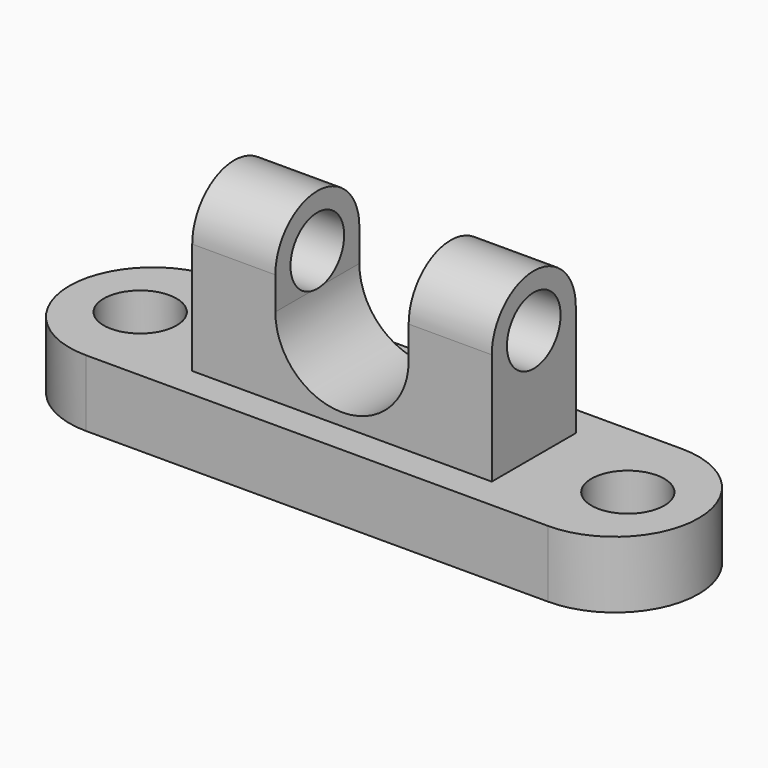
from build123d import *

# Parameters (mm, degrees)
F1_DEPTH  = 20.32
F2_R      = 11.1083186408
F3_DEPTH  = 25.4
F4_W      = 91.2809744477
F4_H      = 32.0040024817
F5_DEPTH  = 34.036
F6_R      = 16.0020012408
F7_DEPTH  = 91.2809744477
F9_DEPTH  = 33.528
F10_R     = 10.2254227484
F11_DEPTH = 105.41


with BuildPart() as f1:
    # F0 (on Top) → F1 (new body)
    with BuildSketch(Plane.XY):
        with BuildLine():
            ThreePointArc((70.4088062048, -25.4640523344), (95.8728585392, 0), (70.4088062048, 25.4640523344))
            Line((70.4088062048, 25.4640523344), (-70.4088062048, 25.4640523344))
            ThreePointArc((-70.4088062048, 25.4640523344), (-95.8728585392, 0), (-70.4088062048, -25.4640523344))
            Line((-70.4088062048, -25.4640523344), (70.4088062048, -25.4640523344))
        make_face()
    extrude(amount=F1_DEPTH)

    # F2 (on face) → F3 (cut)
    with BuildSketch(Plane.XY.offset(20.32)):
        with Locations((74.3049383163, 0)):
            Circle(F2_R)
        with Locations((-74.3049383163, 0)):
            Circle(F2_R)
    extrude(amount=-F3_DEPTH, mode=Mode.SUBTRACT)

    # F4 (on face) → F5 (join)
    with BuildSketch(Plane.XY.offset(20.32)):
        Rectangle(F4_W, F4_H)
    extrude(amount=F5_DEPTH)

    # F6 (on face) → F7 (join, through all)
    with BuildSketch(Plane.YZ.offset(45.6404872239)):
        with Locations((0, 54.356)):
            Circle(F6_R)
    extrude(amount=-F7_DEPTH)

    # F8 (on Front) → F9 (cut, symmetric)
    with BuildSketch(Plane.XZ):
        with BuildLine():
            Line((20.3155819327, 44.3881601095), (20.3155819327, 96.7077314854))
            Line((20.3155819327, 96.7077314854), (-20.3155819327, 96.7077314854))
            Line((-20.3155819327, 96.7077314854), (-20.3155819327, 44.3881601095))
            ThreePointArc((-20.3155819327, 44.3881601095), (0, 24.0725781769), (20.3155819327, 44.3881601095))
        make_face()
    extrude(amount=F9_DEPTH, both=True, mode=Mode.SUBTRACT)

    # F10 (on face) → F11 (cut)
    with BuildSketch(Plane.YZ.offset(45.6404872239)):
        with Locations((0, 54.356)):
            Circle(F10_R)
    extrude(amount=-F11_DEPTH, mode=Mode.SUBTRACT)


solid = f1.part
